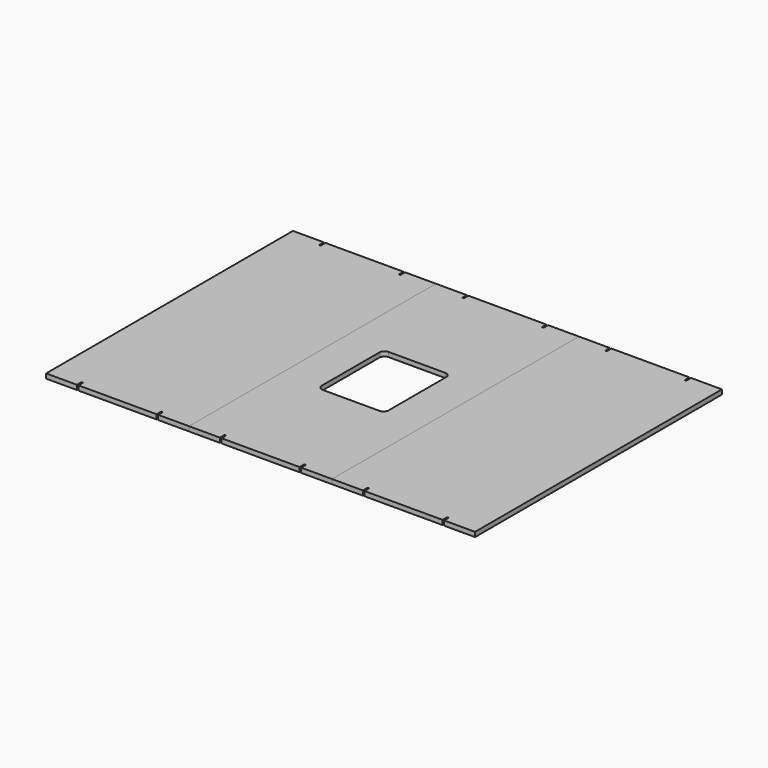
from build123d import *

# Parameters (mm, degrees)
F0_W     = 260
F0_H     = 320
F1_DEPTH = 18
F2_DEPTH = 18
F3_DEPTH = 18
F4_R     = 20


with BuildPart() as f1:
    # F0 (on Top) → F1 (new body)
    with BuildSketch(Plane.XY):
        with BuildLine():
            Line((278, -600), (278, 600))
            Line((278, 600), (158, 600))
            Line((158, 600), (158, 580))
            ThreePointArc((158, 580), (154.9, 576.9), (151.8, 580))
            Line((151.8, 580), (151.8, 600))
            Line((151.8, 600), (-151.8, 600))
            Line((-151.8, 600), (-151.8, 580))
            ThreePointArc((-151.8, 580), (-154.9, 576.9), (-158, 580))
            Line((-158, 580), (-158, 600))
            Line((-158, 600), (-278, 600))
            Line((-278, 600), (-278, -600))
            Line((-278, -600), (-158, -600))
            Line((-158, -600), (-158, -580))
            ThreePointArc((-158, -580), (-154.9, -576.9), (-151.8, -580))
            Line((-151.8, -580), (-151.8, -600))
            Line((-151.8, -600), (151.8, -600))
            Line((151.8, -600), (151.8, -580))
            ThreePointArc((151.8, -580), (154.9, -576.9), (158, -580))
            Line((158, -580), (158, -600))
            Line((158, -600), (278, -600))
        make_face()
        Rectangle(F0_W, F0_H, mode=Mode.SUBTRACT)
    extrude(amount=F1_DEPTH)

    # F4
    f4_edges = [f1.edges().sort_by_distance(p)[0] for p in [
        (-130, 160, 9),
        (130, 160, 9),
        (-130, -160, 9),
        (130, -160, 9),
    ]]
    fillet(f4_edges, radius=F4_R)


with BuildPart() as f2:
    # F0 (on Top) → F2 (new body, through all)
    with BuildSketch(Plane.XY):
        with BuildLine():
            Line((-278, -600), (-278, 600))
            Line((-278, 600), (-398, 600))
            Line((-398, 600), (-398, 580))
            ThreePointArc((-398, 580), (-401.1, 576.9), (-404.2, 580))
            Line((-404.2, 580), (-404.2, 600))
            Line((-404.2, 600), (-707.8, 600))
            Line((-707.8, 600), (-707.8, 580))
            ThreePointArc((-707.8, 580), (-710.9, 576.9), (-714, 580))
            Line((-714, 580), (-714, 600))
            Line((-714, 600), (-834, 600))
            Line((-834, 600), (-834, -600))
            Line((-834, -600), (-714, -600))
            Line((-714, -600), (-714, -580))
            ThreePointArc((-714, -580), (-710.9, -576.9), (-707.8, -580))
            Line((-707.8, -580), (-707.8, -600))
            Line((-707.8, -600), (-404.2, -600))
            Line((-404.2, -600), (-404.2, -580))
            ThreePointArc((-404.2, -580), (-401.1, -576.9), (-398, -580))
            Line((-398, -580), (-398, -600))
            Line((-398, -600), (-278, -600))
        make_face()
    extrude(amount=F2_DEPTH)


with BuildPart() as f3:
    # F0 (on Top) → F3 (new body, through all)
    with BuildSketch(Plane.XY):
        with BuildLine():
            Line((834, -600), (834, 600))
            Line((834, 600), (714, 600))
            Line((714, 600), (714, 580))
            ThreePointArc((714, 580), (710.9, 576.9), (707.8, 580))
            Line((707.8, 580), (707.8, 600))
            Line((707.8, 600), (404.2, 600))
            Line((404.2, 600), (404.2, 580))
            ThreePointArc((404.2, 580), (401.1, 576.9), (398, 580))
            Line((398, 580), (398, 600))
            Line((398, 600), (278, 600))
            Line((278, 600), (278, -600))
            Line((278, -600), (398, -600))
            Line((398, -600), (398, -580))
            ThreePointArc((398, -580), (401.1, -576.9), (404.2, -580))
            Line((404.2, -580), (404.2, -600))
            Line((404.2, -600), (707.8, -600))
            Line((707.8, -600), (707.8, -580))
            ThreePointArc((707.8, -580), (710.9, -576.9), (714, -580))
            Line((714, -580), (714, -600))
            Line((714, -600), (834, -600))
        make_face()
    extrude(amount=F3_DEPTH)


solid = Compound([f1.part, f2.part, f3.part])
